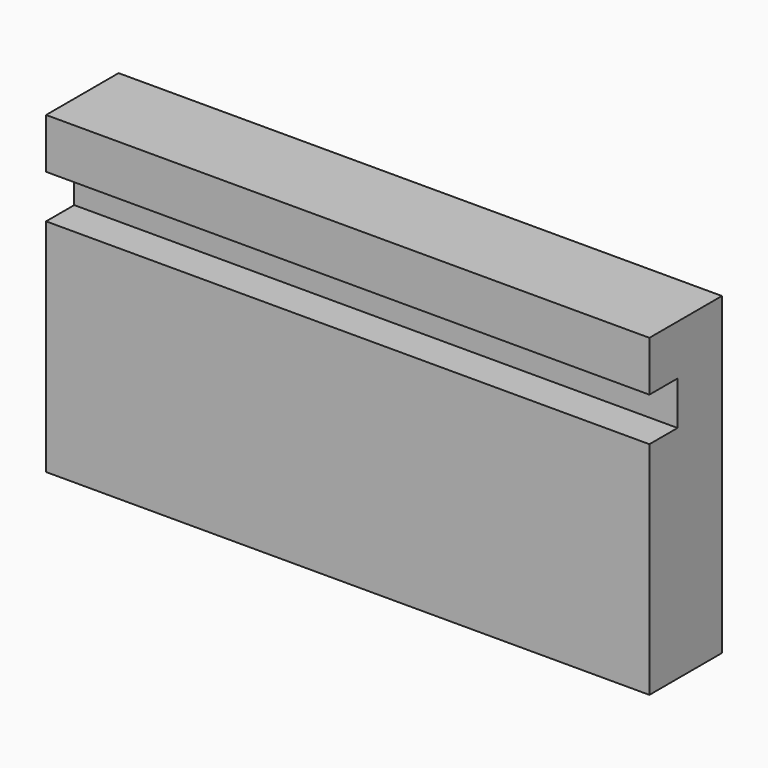
from build123d import *

# Parameters (mm, degrees)
F1_DEPTH      = 120
F1_DEPTH_BACK = 25.4


with BuildPart() as f1:
    # F0 (on Right) → F1 (new body, two sides)
    with BuildSketch(Plane.YZ) as f1_sk:
        Polygon((-21.846049, 0), (0, 0), (0, 75.75617), (-21.846049, 75.75617), (-21.846049, 63.694596), (-13.365726, 63.694596), (-13.365726, 53.186368), (-21.846049, 53.186368), align=None)
    extrude(amount=F1_DEPTH)
    extrude(f1_sk.sketch, amount=-F1_DEPTH_BACK)


solid = f1.part
